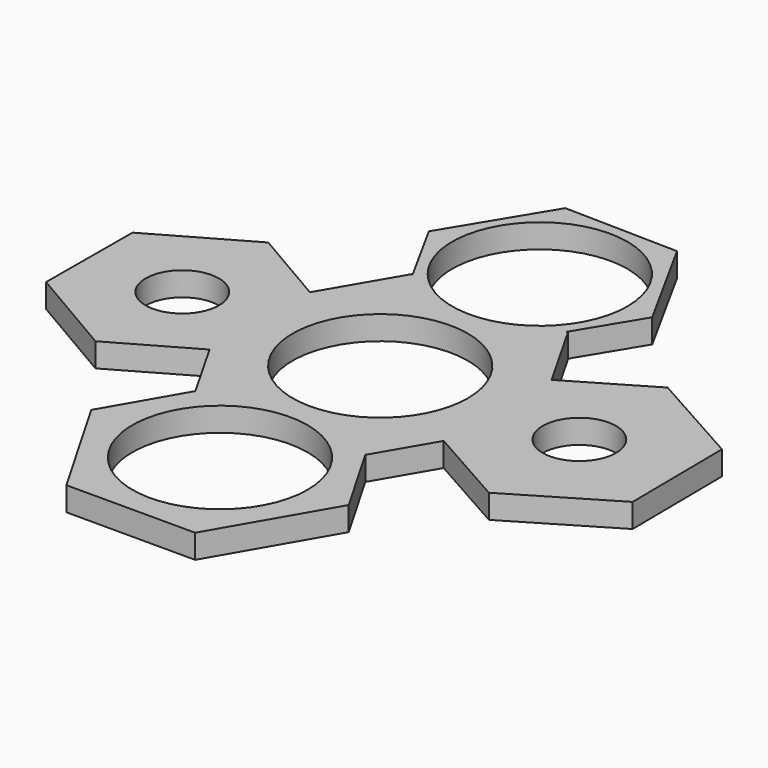
from build123d import *

# Parameters (mm, degrees)
F0_R     = 11
F0_R_2   = 4.6
F1_DEPTH = 3


with BuildPart() as f1:
    # F0 (on Top) → F1 (new body)
    with BuildSketch(Plane.XY):
        with BuildLine():
            ThreePointArc((0.123785, -10.999303), (7.821817, -7.734286), (11, 0))
            ThreePointArc((11, 0), (-7.734286, 7.821817), (-0.123785, -10.999303))
            Line((-0.123785, -10.999303), (0.123785, -10.999303))
        make_face()
        with BuildLine():
            ThreePointArc((29.6, 0), (25, 4.6), (20.4, 0))
            ThreePointArc((20.4, 0), (25, -4.6), (29.6, 0))
        make_face()
        Polygon((14.973083, 8.172377), (9.939928, 17.021265), (9.727545, 17.022317), (14.377152, 24.707594), (7.503434, 37.197422), (-6.749933, 37.489521), (-14.129582, 25.291793), (-9.631268, 17.118172), (-9.770884, 17.118863), (-15.156777, 7.895989), (-24.932942, 13.604987), (-36.641381, 6.922195), (-36.708133, -6.559007), (-25.066445, -13.357416), (-15.234225, -7.745508), (-10.806813, -15.502459), (-16.290043, -24.999694), (-8.206914, -39.000084), (7.959344, -39.000084), (16.042473, -24.999694), (10.653492, -15.665704), (14.809085, -8.549611), (25.142257, -14.377539), (37.364294, -7.097444), (37.221359, 7.097444), (24.877534, 14.004538), align=None)
        with Locations((-0.123785, -24.999694)):
            Circle(F0_R, mode=Mode.SUBTRACT)
        with Locations((-24.965554, 0.140618)):
            Circle(F0_R_2, mode=Mode.SUBTRACT)
        with BuildLine():
            ThreePointArc((-0.123785, -10.999303), (-7.734286, 7.821817), (11, 0))
            ThreePointArc((11, 0), (7.821817, -7.734286), (0.123785, -10.999303))
            ThreePointArc((0.123785, -10.999303), (0, -11), (-0.123785, -10.999303))
        make_face(mode=Mode.SUBTRACT)
        with Locations((0.03405, 24.999808)):
            Circle(F0_R, mode=Mode.SUBTRACT)
        with BuildLine():
            ThreePointArc((29.6, 0), (25, -4.6), (20.4, 0))
            ThreePointArc((20.4, 0), (25, 4.6), (29.6, 0))
        make_face(mode=Mode.SUBTRACT)
    extrude(amount=F1_DEPTH)


solid = f1.part
